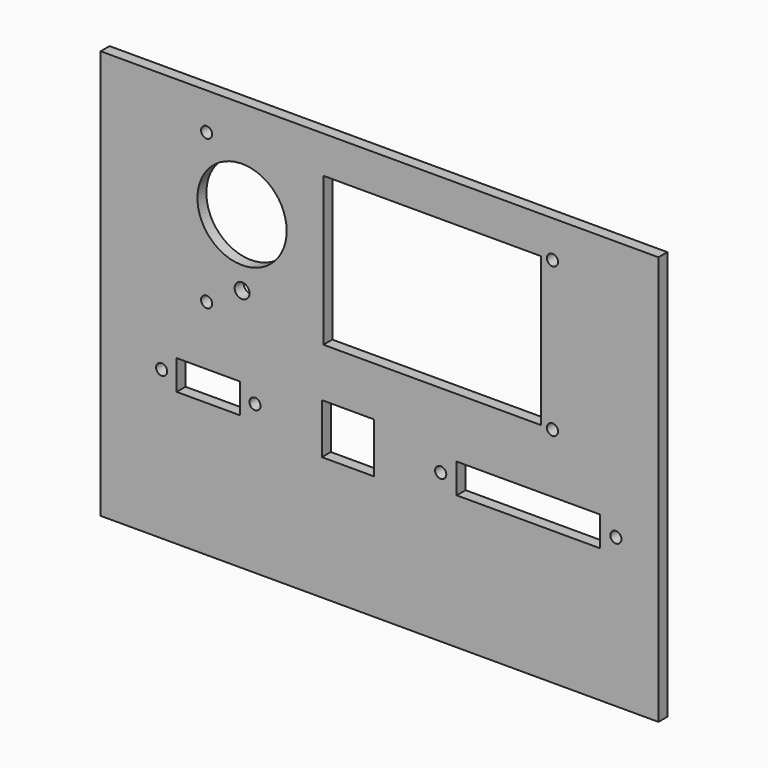
from build123d import *

# Parameters (mm, degrees)
SKETCH_W        = 150
SKETCH_H        = 110
PAD_DEPTH       = 3
SKETCH001_R     = 1.5
SKETCH001_R_2   = 12
SKETCH001_R_3   = 2
SKETCH001_W     = 58.5
SKETCH001_H     = 40
POCKET_DEPTH    = 3.001
SKETCH002_R     = 1.5
SKETCH002_W     = 38.5
SKETCH002_H     = 8
SKETCH002_W_2   = 14
SKETCH002_H_2   = 13.5
SKETCH002_W_3   = 17
POCKET001_DEPTH = 3.001


with BuildPart() as part:
    # Sketch → Pad (new body)
    with BuildSketch(Plane.XZ):
        with Locations((20, -10)):
            Rectangle(SKETCH_W, SKETCH_H)
    extrude(amount=PAD_DEPTH)

    # Sketch001 (on Face5 of Pad) → Pocket (cut, through all)
    with BuildSketch(Plane(origin=(0, 0, 0), x_dir=(1, 0, 0), z_dir=(0, 1, 0))):
        with Locations((-26.5, 5.07)):
            Circle(SKETCH001_R)
        with Locations((-26.5, -35.07)):
            Circle(SKETCH001_R)
        with Locations((66.5, -35.07)):
            Circle(SKETCH001_R)
        with Locations((66.5, 5.07)):
            Circle(SKETCH001_R)
        with Locations((-16.97, -18.72)):
            Circle(SKETCH001_R_2)
        with Locations((-16.97, -0.68)):
            Circle(SKETCH001_R_3)
        with Locations((34.15, -15)):
            Rectangle(SKETCH001_W, SKETCH001_H)
    extrude(amount=-POCKET_DEPTH, mode=Mode.SUBTRACT)

    # Sketch002 (on Face4 of Pocket) → Pocket001 (cut, through all)
    with BuildSketch(Plane(origin=(0, 0, 0), x_dir=(1, 0, 0), z_dir=(0, 1, 0))):
        with Locations((36.45, 25)):
            Circle(SKETCH002_R)
        with Locations((83.55, 25)):
            Circle(SKETCH002_R)
        with Locations((-38.6, 25)):
            Circle(SKETCH002_R)
        with Locations((-13.5, 25)):
            Circle(SKETCH002_R)
        with Locations((60, 25)):
            Rectangle(SKETCH002_W, SKETCH002_H)
        with Locations((11.5, 25)):
            Rectangle(SKETCH002_W_2, SKETCH002_H_2)
        with Locations((-26.05, 25)):
            Rectangle(SKETCH002_W_3, SKETCH002_H)
    extrude(amount=-POCKET001_DEPTH, mode=Mode.SUBTRACT)


solid = part.part
